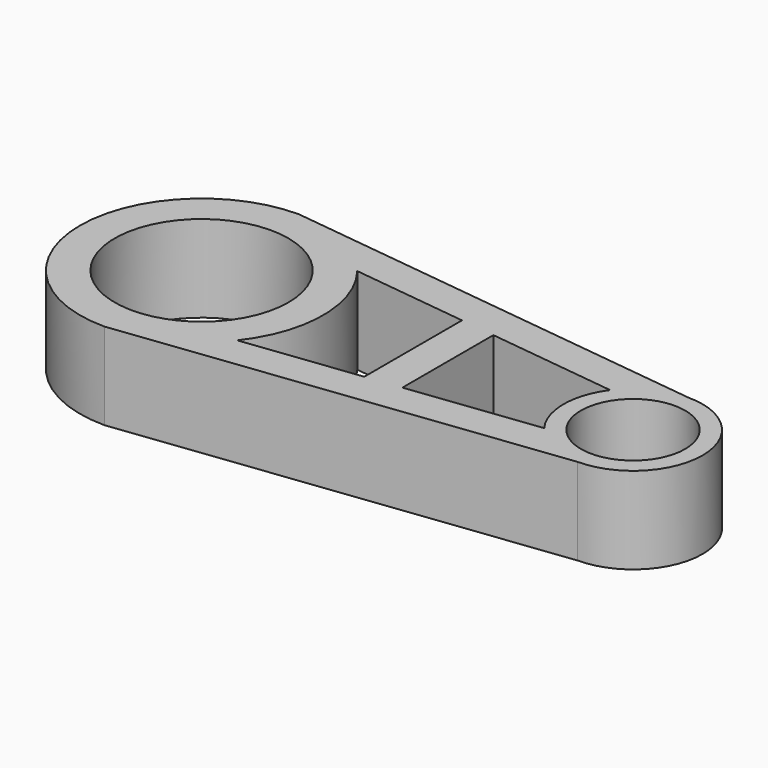
from build123d import *

# Parameters (mm, degrees)
F0_R     = 25
F0_R_2   = 15
F1_DEPTH = 25


with BuildPart() as f1:
    # F0 (on Top) → F1 (new body)
    with BuildSketch(Plane.XY):
        with BuildLine():
            Line((52.66999, 20), (-71.551683, 35))
            ThreePointArc((-71.551683, 35), (-106.551683, 0), (-71.551683, -35))
            Line((-71.551683, -35), (52.66999, -20))
            ThreePointArc((52.66999, -20), (72.66999, 0), (52.66999, 20))
        make_face()
        with Locations((-71.551683, 0)):
            Circle(F0_R, mode=Mode.SUBTRACT)
        with BuildLine():
            ThreePointArc((-44.01352, -21.602074), (-36.551683, 0), (-44.01352, 21.602074))
            Line((-44.01352, 21.602074), (-10.639657, 17.572117))
            Line((-10.639657, 17.572117), (-10.639657, -17.572117))
            Line((-10.639657, -17.572117), (-44.01352, -21.602074))
        make_face(mode=Mode.SUBTRACT)
        with BuildLine():
            Line((-0.639657, 16.364599), (36.57403, 11.870976))
            ThreePointArc((36.57403, 11.870976), (32.66999, 0), (36.57403, -11.870976))
            Line((36.57403, -11.870976), (-0.639657, -16.364599))
            Line((-0.639657, -16.364599), (-0.639657, 16.364599))
        make_face(mode=Mode.SUBTRACT)
        with Locations((52.66999, 0)):
            Circle(F0_R_2, mode=Mode.SUBTRACT)
    extrude(amount=F1_DEPTH)


solid = f1.part
